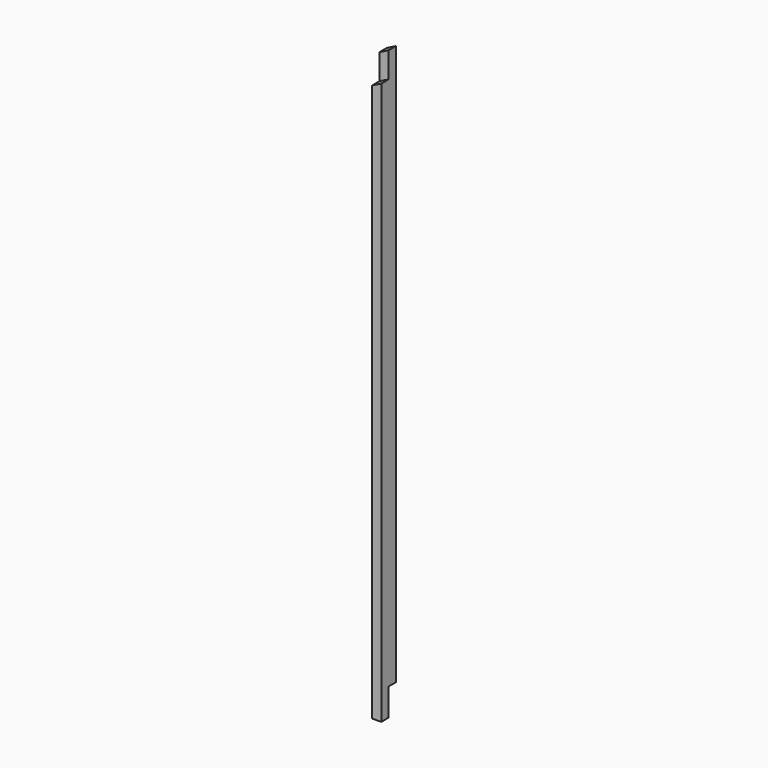
from build123d import *

# Parameters (mm, degrees)
F0_W          = 50
F0_H          = 100
F1_DEPTH      = 3207.5
F2_W          = 50
F2_H          = 150
F3_DEPTH      = 25
F3_DEPTH_BACK = 25
F5_DEPTH      = 100
F7_DEPTH      = 50


with BuildPart() as f1:
    # F0 (on Top) → F1 (new body)
    with BuildSketch(Plane.XY):
        Rectangle(F0_W, F0_H)
    extrude(amount=F1_DEPTH)

    # F2 (on Right) → F3 (cut, two sides)
    with BuildSketch(Plane.YZ) as f3_sk:
        with Locations((25, 75)):
            Rectangle(F2_W, F2_H)
    extrude(amount=-F3_DEPTH, mode=Mode.SUBTRACT)
    extrude(f3_sk.sketch, amount=F3_DEPTH_BACK, mode=Mode.SUBTRACT)

    # F4 (on face) → F5 (cut, through all)
    with BuildSketch(Plane.XZ.offset(50)):
        Polygon((-25, 3182.5), (25, 3207.5), (-25, 3207.5), align=None)
    extrude(amount=-F5_DEPTH, mode=Mode.SUBTRACT)

    # F6 (on face) → F7 (cut)
    with BuildSketch(Plane.XZ.offset(50)):
        Polygon((-25, 3182.5), (-25, 3042.7457514063), (25, 3067.7457514063), (25, 3207.5), align=None)
    extrude(amount=-F7_DEPTH, mode=Mode.SUBTRACT)


solid = f1.part
